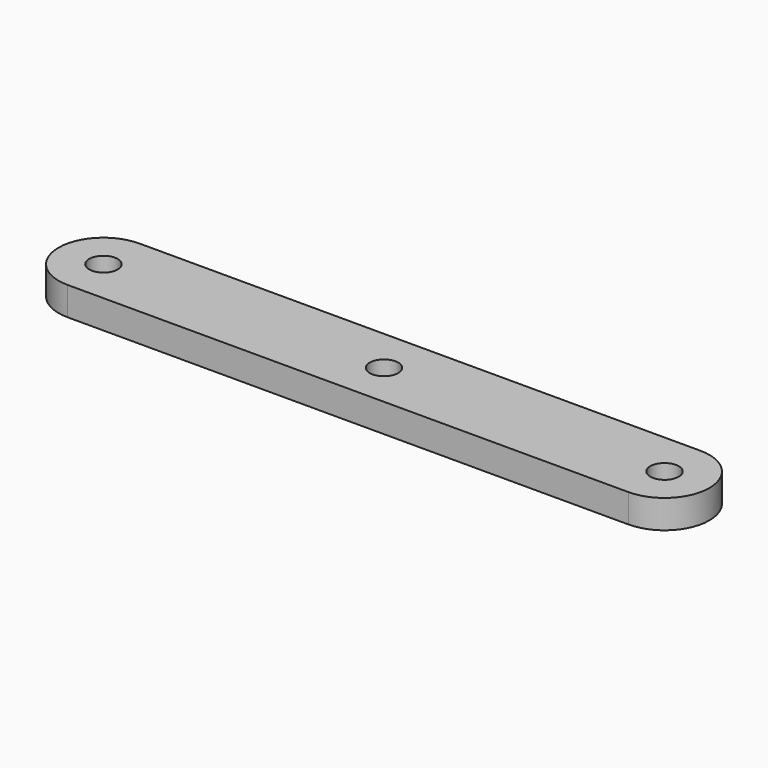
from build123d import *

# Parameters (mm, degrees)
F2_DEPTH = 6.35
F1_R     = 3.175
F3_DEPTH = 6.351


with BuildPart() as f2:
    # F0 (on Top) → F2 (new body)
    with BuildSketch(Plane.XY):
        with BuildLine():
            Line((74.432049, -42.245469), (-50.567951, -42.245469))
            ThreePointArc((-50.567951, -42.245469), (-60.567951, -52.245469), (-50.567951, -62.245469))
            Line((-50.567951, -62.245469), (74.432049, -62.245469))
            ThreePointArc((74.432049, -62.245469), (84.432049, -52.245469), (74.432049, -42.245469))
        make_face()
    extrude(amount=F2_DEPTH)

    # F1 (on Top) → F3 (cut, through all)
    with BuildSketch(Plane.XY):
        with Locations((-50.567951, -52.245469)):
            Circle(F1_R)
        with Locations((74.432049, -52.245469)):
            Circle(F1_R)
        with Locations((11.932049, -52.245469)):
            Circle(F1_R)
    extrude(amount=F3_DEPTH, mode=Mode.SUBTRACT)


solid = f2.part
